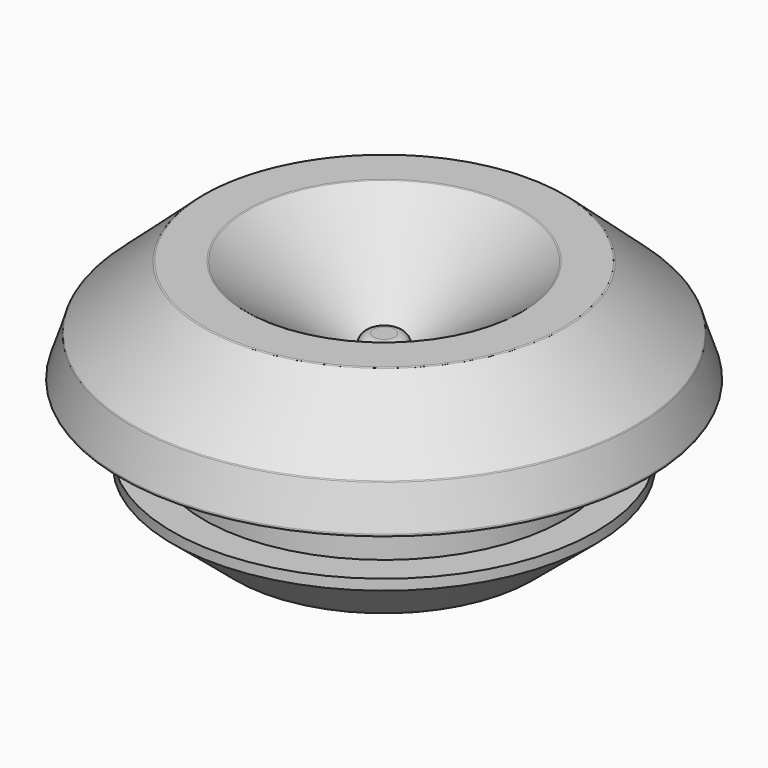
from build123d import *

# Parameters (mm, degrees)
F2_R = 0.5
F3_R = 0.1


with BuildPart() as f1:
    # F0 (on Front) → F1 (revolve)
    with BuildSketch(Plane.XZ):
        Polygon((1, 2), (0, 2), (0, 0), (6.5, 0), (6.5, -6), (7, -6), (10, -3.5), (10, -3), (8.5, -3), (8.5, 0), (12.5, 0), (11.854102, 2), (8.5, 5), (6.5, 5), (1, 1), align=None)
    revolve(axis=Axis((0, 0, 1), (0, 0, 1)))

    # F2
    f2_edges = [f1.edges().sort_by_distance(p)[0] for p in [
        (-1, 0, 2),
    ]]
    fillet(f2_edges, radius=F2_R)

    # F3
    f3_edges = [f1.edges().sort_by_distance(p)[0] for p in [
        (-6.5, 0, 5),
        (-8.5, 0, 5),
        (-11.854102, 0, 2),
        (-12.5, 0, 0),
    ]]
    fillet(f3_edges, radius=F3_R)


solid = f1.part
